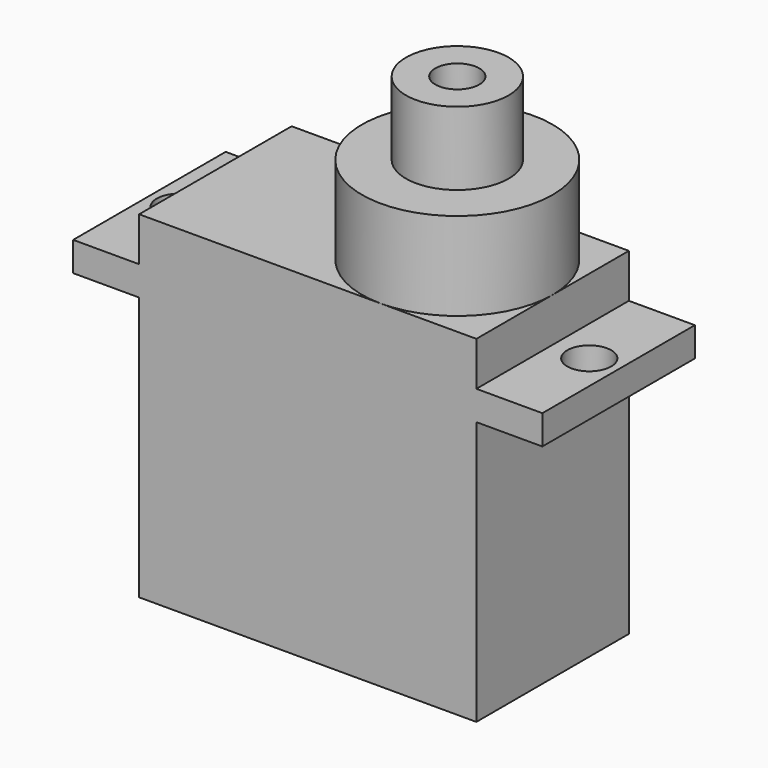
from build123d import *

# Parameters (mm, degrees)
CYLINDER002_R     = 1.5
CYLINDER002_DEPTH = 10
CYLINDER001_R     = 1.5
CYLINDER001_DEPTH = 5
CYLINDER003_R     = 1.5
CYLINDER003_DEPTH = 10
CYLINDER004_R     = 3.5
CYLINDER004_DEPTH = 5
BOX001_W          = 32
BOX001_H          = 13
BOX001_DEPTH      = 2
CYLINDER_R        = 6.5
CYLINDER_DEPTH    = 6
BOX_W             = 23
BOX_H             = 13
BOX_DEPTH         = 23


with BuildPart() as zylinder002:
    # Cylinder002 → Cylinder002 (new body)
    with BuildSketch(Plane(origin=(25.5, 6.5, 13), x_dir=(1, 0, 0), z_dir=(0, 0, 1))):
        Circle(CYLINDER002_R)
    extrude(amount=CYLINDER002_DEPTH)


with BuildPart() as zylinder001:
    # Cylinder001 → Cylinder001 (new body)
    with BuildSketch(Plane(origin=(16.5, 6.5, 30), x_dir=(1, 0, 0), z_dir=(0, 0, 1))):
        Circle(CYLINDER001_R)
    extrude(amount=CYLINDER001_DEPTH)


with BuildPart() as fusion:
    # Cylinder003 → Cylinder003 (new body)
    with BuildSketch(Plane(origin=(-2.5, 6.5, 13), x_dir=(1, 0, 0), z_dir=(0, 0, 1))):
        Circle(CYLINDER003_R)
    extrude(amount=CYLINDER003_DEPTH)

    # Fusion: union Zylinder002, Zylinder001
    add(zylinder002.part)
    add(zylinder001.part)


with BuildPart() as zylinder004:
    # Cylinder004 → Cylinder004 (new body)
    with BuildSketch(Plane(origin=(16.5, 6.5, 29), x_dir=(1, 0, 0), z_dir=(0, 0, 1))):
        Circle(CYLINDER004_R)
    extrude(amount=CYLINDER004_DEPTH)


with BuildPart() as obj1:
    # Box001 → Box001 (new body)
    with BuildSketch(Plane(origin=(-4.5, 0, 18), x_dir=(1, 0, 0), z_dir=(0, 0, 1))):
        with Locations((16, 6.5)):
            Rectangle(BOX001_W, BOX001_H)
    extrude(amount=BOX001_DEPTH)


with BuildPart() as zylinder:
    # Cylinder → Cylinder (new body)
    with BuildSketch(Plane(origin=(16.5, 6.5, 23), x_dir=(1, 0, 0), z_dir=(0, 0, 1))):
        Circle(CYLINDER_R)
    extrude(amount=CYLINDER_DEPTH)


with BuildPart() as servo1:
    # Box → Box (new body)
    with BuildSketch(Plane.XY):
        with Locations((11.5, 6.5)):
            Rectangle(BOX_W, BOX_H)
    extrude(amount=BOX_DEPTH)

    # Fusion001: union Zylinder004, obj1, Zylinder
    add(zylinder004.part)
    add(obj1.part)
    add(zylinder.part)

    # Cut: cut Fusion
    add(fusion.part, mode=Mode.SUBTRACT)


with BuildPart() as servo1_1:
    # Cut placement: moved
    add(servo1.part.moved(Location((0, 3.5, -25))))


solid = servo1_1.part
